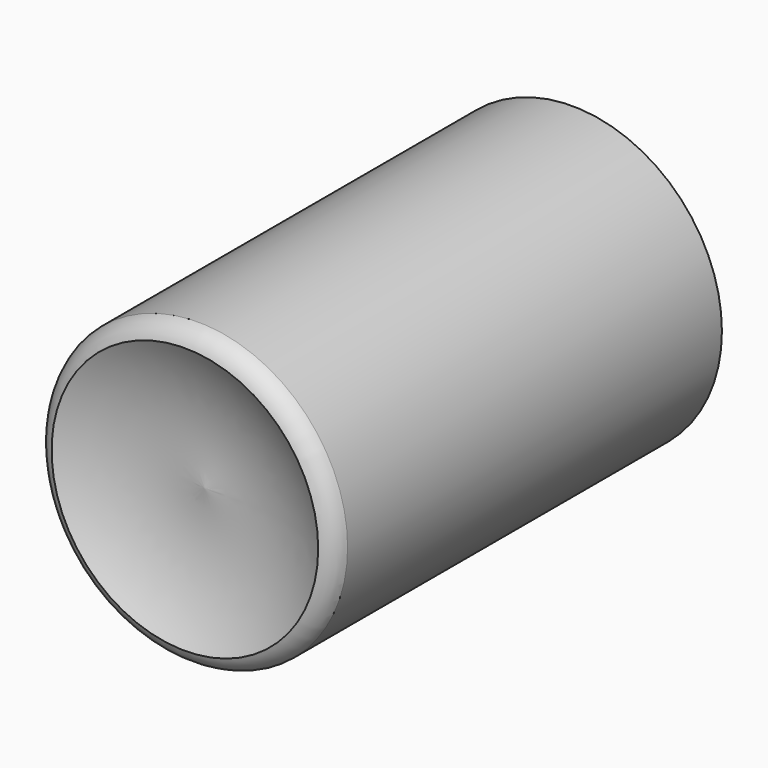
from build123d import *

# Parameters (mm, degrees)
F1_FACE_R = 29.03589
F2_DEPTH  = 101.6


with BuildPart() as f1:
    # F0 (on Top) → F1 (revolve)
    with BuildSketch(Plane.XY):
        with BuildLine():
            Line((0, 42.261515), (0, 37.099577))
            ThreePointArc((0, 37.099577), (17.996524, 34.919946), (35.488304, 39.680548))
            Line((35.488304, 39.680548), (29.03589, 39.680548))
            Line((29.03589, 39.680548), (29.03589, 42.261515))
            Line((29.03589, 42.261515), (0, 42.261515))
        make_face()
        with BuildLine():
            ThreePointArc((0, -69.365337), (16.272551, -69.742038), (31.616855, -75.172521))
            ThreePointArc((31.616855, -75.172521), (34.039692, -73.72391), (35.488304, -71.301073))
            Line((35.488304, -71.301073), (35.488304, 39.680548))
            ThreePointArc((35.488304, 39.680548), (17.996524, 34.919946), (0, 37.099577))
            Line((0, 37.099577), (0, -69.365337))
        make_face()
    revolve(axis=Axis((0, -0.485763, 0), (0, -1, 0)))

    # F1_face (on face) → F2 (cut)
    with BuildSketch(Plane(origin=(0, 42.261515, 0), x_dir=(-1, 0, 0), z_dir=(0, 1, 0))):
        Circle(F1_FACE_R)
    extrude(amount=-F2_DEPTH, mode=Mode.SUBTRACT)


solid = f1.part
